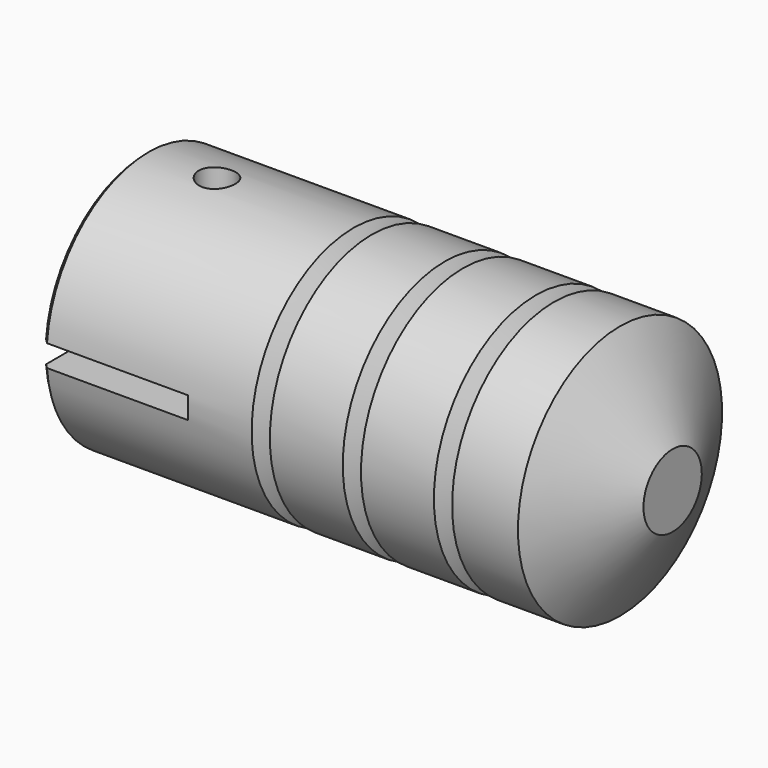
from build123d import *

# Parameters (mm, degrees)
F2_SIZE  = 0.25
F3_W     = 15
F3_H     = 1.2
F4_DEPTH = 8
F5_R     = 1
F6_DEPTH = 12.5


with BuildPart() as f1:
    # F0 (on Front) → F1 (revolve)
    with BuildSketch(Plane.XZ):
        Polygon((0, 7), (0, 0), (29, 0), (29, 2), (26.113249, 7), (22.5, 7), (22, 6.133975), (21.5, 7), (17.5, 7), (17, 6.133975), (16.5, 7), (12.5, 7), (12, 6.133975), (11.5, 7), align=None)
    revolve(axis=Axis((14.5, 0, 0), (-1, 0, 0)))

    # F2
    f2_edges = [f1.edges().sort_by_distance(p)[0] for p in [
        (0, 0, -7),
    ]]
    chamfer(f2_edges, length=F2_SIZE)

    # F3 (on Right) → F4 (cut)
    with BuildSketch(Plane.YZ):
        Rectangle(F3_W, F3_H)
    extrude(amount=F4_DEPTH, mode=Mode.SUBTRACT)

    # F5 (on Top) → F6 (cut, symmetric)
    with BuildSketch(Plane.XY):
        with Locations((4, 0)):
            Circle(F5_R)
    extrude(amount=F6_DEPTH, both=True, mode=Mode.SUBTRACT)


solid = f1.part
